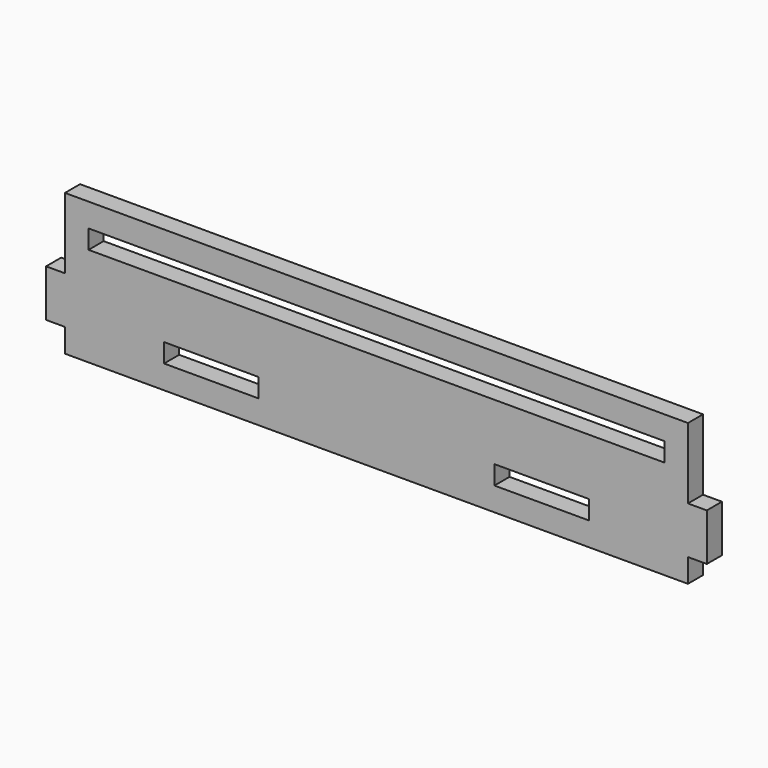
from build123d import *

# Parameters (mm, degrees)
F0_W     = 20
F0_H     = 4
F0_W_2   = 122
F1_DEPTH = 4


with BuildPart() as f1:
    # F0 (on Front) → F1 (new body)
    with BuildSketch(Plane.XZ):
        Polygon((66, 0), (66, 15), (-66, 15), (-66, 0), (-70, 0), (-70, -10), (-66, -10), (-66, -15), (66, -15), (66, -10), (70, -10), (70, 0), align=None)
        with Locations((-35, -8)):
            Rectangle(F0_W, F0_H, mode=Mode.SUBTRACT)
        with Locations((35, -8)):
            Rectangle(F0_W, F0_H, mode=Mode.SUBTRACT)
        with Locations((0, 8)):
            Rectangle(F0_W_2, F0_H, mode=Mode.SUBTRACT)
    extrude(amount=F1_DEPTH)


solid = f1.part
